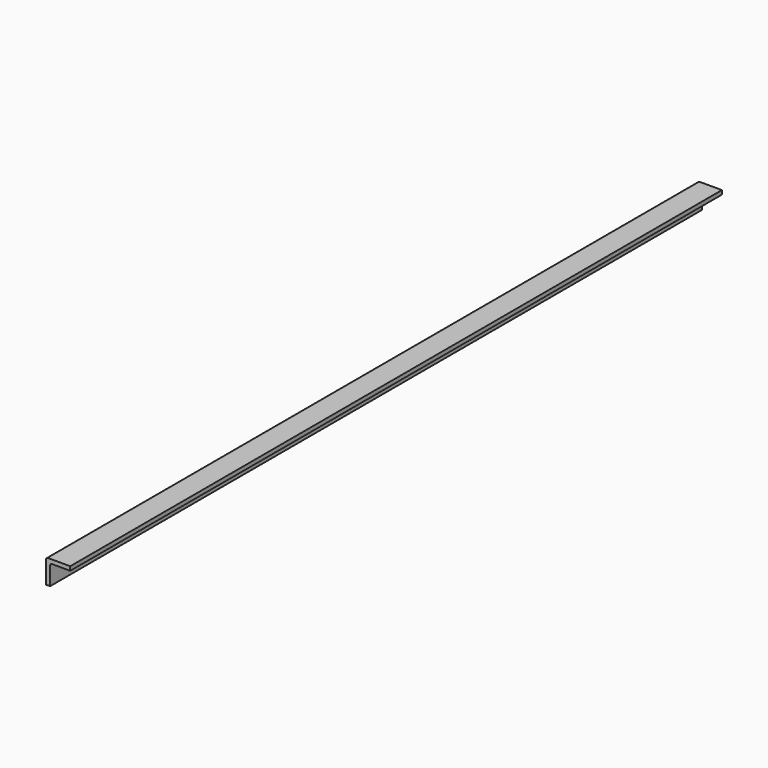
from build123d import *

# Parameters (mm, degrees)
F1_DEPTH = 1012


with BuildPart() as f1:
    # F0 (on Front) → F1 (new body)
    with BuildSketch(Plane.XZ):
        with BuildLine():
            Line((15, 15), (-12.5, 15))
            ThreePointArc((-12.5, 15), (-14.267767, 14.267767), (-15, 12.5))
            Line((-15, 12.5), (-15, -15))
            Line((-15, -15), (-10, -15))
            Line((-10, -15), (-10, 7.5))
            ThreePointArc((-10, 7.5), (-9.267767, 9.267767), (-7.5, 10))
            Line((-7.5, 10), (15, 10))
            Line((15, 10), (15, 15))
        make_face()
    extrude(amount=F1_DEPTH)


solid = f1.part
